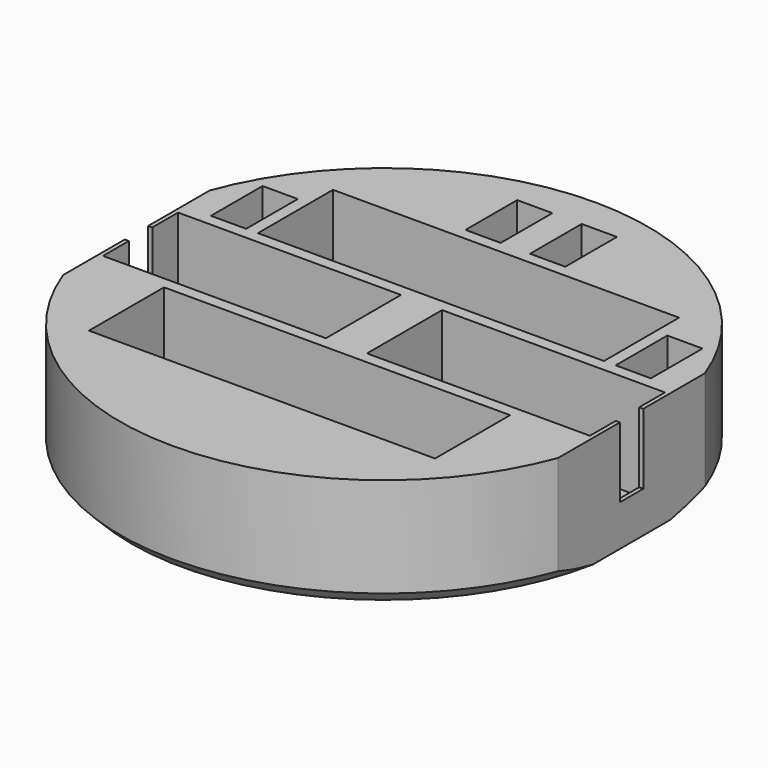
from build123d import *

# Parameters (mm, degrees)
F0_R     = 45
F1_DEPTH = 19
F2_W     = 7
F2_H     = 5
F2_W_2   = 59
F2_H_2   = 16
F3_DEPTH = 17
F4_W     = 6
F4_H     = 11
F4_W_2   = 11
F4_H_2   = 16
F4_W_3   = 10.7800960541
F4_H_3   = 45.1917052269
F4_R     = 5.5
F5_DEPTH = 19.001
F7_START = -12
F6_W     = 0.7
F6_H     = 5
F7_DEPTH = 5
F8_W     = 20.6779545471
F8_H     = 16
F9_DEPTH = 1.82
F10_SIZE = 2


with BuildPart() as f1:
    # F0 (on Top) → F1 (new body)
    with BuildSketch(Plane.XY):
        Circle(F0_R)
    extrude(amount=F1_DEPTH)

    # F2 (on face) → F3 (cut)
    with BuildSketch(Plane.XY.offset(19)):
        Polygon((41.5, 2.5), (41.5, 8), (3.5, 8), (3.5, -8), (41.5, -8), (41.5, -2.5), align=None)
        with Locations((45, 0)):
            Rectangle(F2_W, F2_H)
        with Locations((0, 18)):
            Rectangle(F2_W_2, F2_H_2)
        with Locations((0, -18)):
            Rectangle(F2_W_2, F2_H_2)
        Polygon((-3.5, 8), (-41.5, 8), (-41.5, 2.5), (-41.5, -2.5), (-41.5, -8), (-3.5, -8), align=None)
        with Locations((-45, 0)):
            Rectangle(F2_W, F2_H)
    extrude(amount=-F3_DEPTH, mode=Mode.SUBTRACT)

    # F4 (on face) → F5 (cut, through all)
    with BuildSketch(Plane.XY.offset(19)):
        with Locations((-34.5, 15.5)):
            Rectangle(F4_W, F4_H)
        with Locations((34.5, 15.5)):
            Rectangle(F4_W, F4_H)
        with Locations((-5.5, 33.5)):
            Rectangle(F4_W, F4_H)
        with Locations((5.5, 33.5)):
            Rectangle(F4_W, F4_H)
        with Locations((-9, 0)):
            Rectangle(F4_W_2, F4_H_2)
        with Locations((9, 0)):
            Rectangle(F4_W_2, F4_H_2)
        with Locations((-47.590048027, 0)):
            Rectangle(F4_W_3, F4_H_3)
        with Locations((47.590048027, 0)):
            Rectangle(F4_W_3, F4_H_3)
        with Locations((0, 18)):
            Circle(F4_R)
        with Locations((0, -18)):
            Circle(F4_R)
    extrude(amount=-F5_DEPTH, mode=Mode.SUBTRACT)

    # F6 (on face) → F7 (join)
    with BuildSketch(Plane.XY.offset(19).offset(F7_START)):
        with Locations((-41.85, 0)):
            Rectangle(F6_W, F6_H)
        with Locations((41.85, 0)):
            Rectangle(F6_W, F6_H)
    extrude(amount=-F7_DEPTH)

    # F8 (on face) → F9 (join)
    with BuildSketch(Plane.XY.offset(2)):
        with Locations((-20.1610227264, 0)):
            Rectangle(F8_W, F8_H)
        with Locations((20.1610227264, 0)):
            Rectangle(F8_W, F8_H)
    extrude(amount=F9_DEPTH)

    # F10
    f10_edges = [f1.edges().sort_by_distance(p)[0] for p in [
        (0, -45, 0),
        (0, 45, 0),
    ]]
    chamfer(f10_edges, length=F10_SIZE)


solid = f1.part
